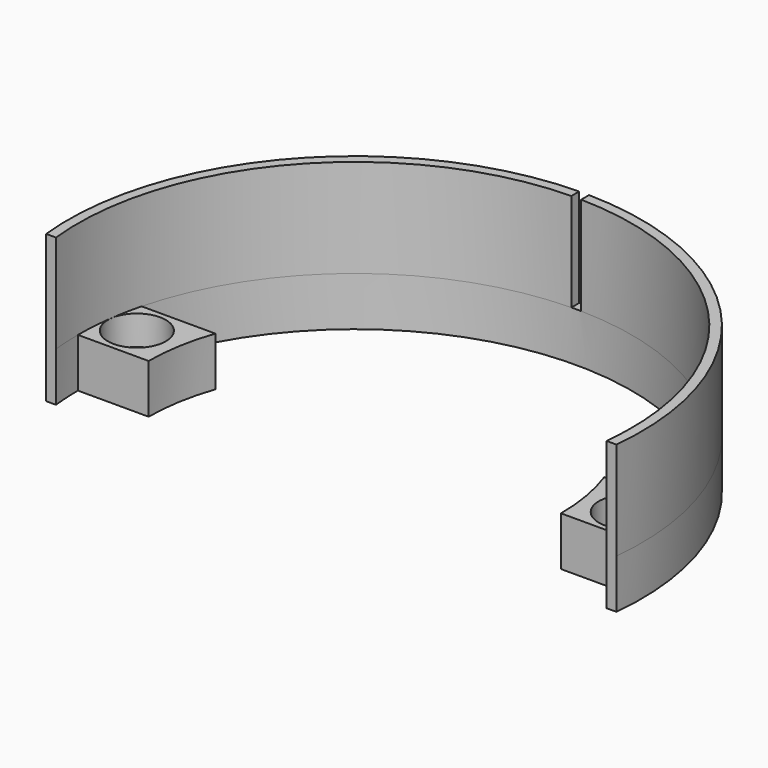
from build123d import *

# Parameters (mm, degrees)
SKETCH_R     = 1.7
PAD_DEPTH    = 5
PAD001_DEPTH = 10
SKETCH002_R  = 2.95
POCKET_DEPTH = 3


with BuildPart() as part:
    # Sketch → Pad (new body)
    with BuildSketch(Plane.XY):
        with BuildLine():
            ThreePointArc((29.045482, -3), (0, 29.2), (-29.045482, -3))
            Line((-28.039971, -3), (-29.045482, -3))
            ThreePointArc((-28.2, 0), (-28.159964, -1.502133), (-28.039971, -3))
            Line((-28.2, 0), (-21, 0))
            ThreePointArc((-19.79899, 7), (-20.69757, 3.551142), (-21, 0))
            Line((-19.79899, 7), (-27.317394, 7))
            ThreePointArc((27.317394, 7), (0, 28.2), (-27.317394, 7))
            Line((19.79899, 7), (27.317394, 7))
            ThreePointArc((21, 0), (20.69757, 3.551142), (19.79899, 7))
            Line((21, 0), (28.2, 0))
            ThreePointArc((28.039971, -3), (28.159964, -1.502133), (28.2, 0))
            Line((28.039971, -3), (29.045482, -3))
        make_face()
        with Locations((-25, 3.5)):
            Circle(SKETCH_R, mode=Mode.SUBTRACT)
        with Locations((25, 3.5)):
            Circle(SKETCH_R, mode=Mode.SUBTRACT)
    extrude(amount=PAD_DEPTH)

    # Sketch001 (on Face16 of Pad) → Pad001 (join)
    with BuildSketch(Plane.XY.offset(5)):
        with BuildLine():
            ThreePointArc((-0.5, 28.195567), (-21.140562, 18.663243), (-28.039971, -3))
            Line((-29.045482, -3), (-28.039971, -3))
            ThreePointArc((-0.5, 29.195719), (-21.848912, 19.371759), (-29.045482, -3))
            Line((-0.5, 29.195719), (-0.5, 28.195567))
        make_face()
        with BuildLine():
            ThreePointArc((28.039971, -3), (21.140562, 18.663243), (0.5, 28.195567))
            Line((0.5, 28.195567), (0.5, 29.195719))
            ThreePointArc((29.045482, -3), (21.848912, 19.371759), (0.5, 29.195719))
            Line((28.039971, -3), (29.045482, -3))
        make_face()
    extrude(amount=PAD001_DEPTH)

    # Sketch002 (on Face10 of Pad001) → Pocket (cut)
    with BuildSketch(Plane.XY.offset(5)):
        with Locations((-25, 3.5)):
            Circle(SKETCH002_R)
        with Locations((25, 3.5)):
            Circle(SKETCH002_R)
    extrude(amount=-POCKET_DEPTH, mode=Mode.SUBTRACT)


solid = part.part
